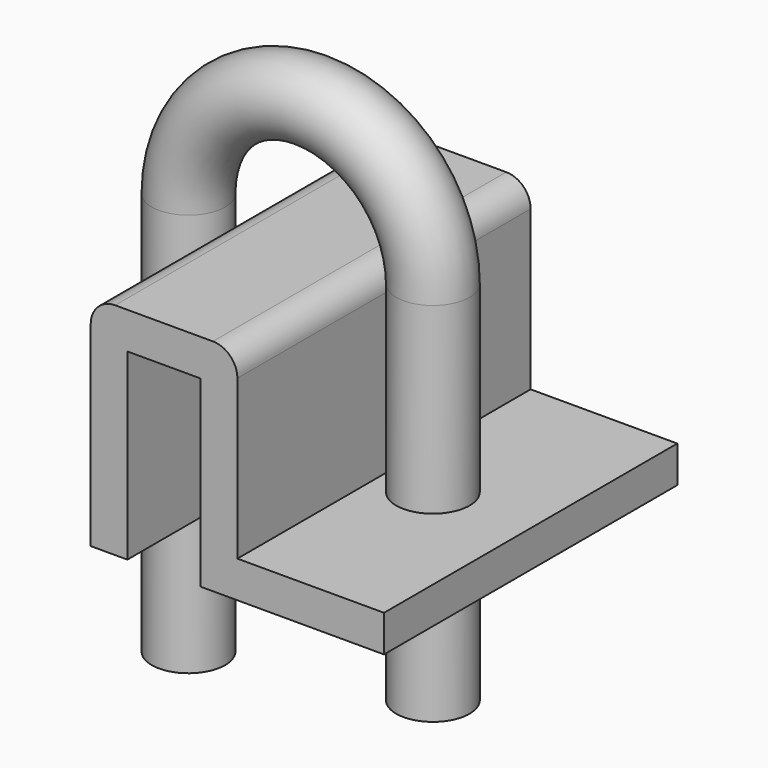
from build123d import *

# Parameters (mm, degrees)
F1_DEPTH = 15
F2_R     = 2
F3_R     = 2
F5_R     = 3
F5_R_2   = 1.9999997224


with BuildPart() as f1:
    # F0 (on Front) → F1 (new body, symmetric)
    with BuildSketch(Plane.XZ):
        Polygon((-3, 15), (-3, 30), (3, 30), (3, 15), (18, 15), (18, 18), (6, 18), (6, 33), (-6, 33), (-6, 15), align=None)
    extrude(amount=F1_DEPTH, both=True)

    # F2
    f2_edges = [f1.edges().sort_by_distance(p)[0] for p in [
        (6, 0, 33),
    ]]
    fillet(f2_edges, radius=F2_R)

    # F3
    f3_edges = [f1.edges().sort_by_distance(p)[0] for p in [
        (-6, 0, 33),
    ]]
    fillet(f3_edges, radius=F3_R)

    # F6: sweep along a path in F4
    with BuildLine(Plane.XZ) as f6_path:
        Line((-10, 0), (-10, 33))
        ThreePointArc((-10, 33), (0, 43), (10, 33))
        Line((10, 33), (10, 3))
    # F5 (on Top) → F6 (sweep)
    with BuildSketch(Plane.XY):
        with Locations((-10, 0)):
            Circle(F5_R)
        with Locations((-10, 0)):
            Circle(F5_R_2, mode=Mode.SUBTRACT)
    sweep(path=f6_path.line)


solid = f1.part
